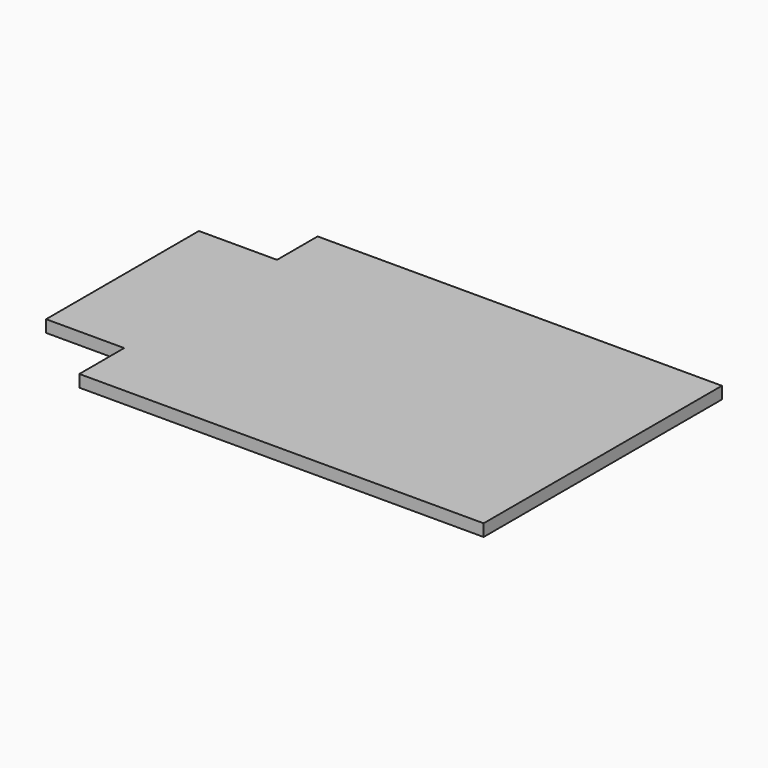
from build123d import *

# Parameters (mm, degrees)
F1_DEPTH = 3.175


with BuildPart() as f1:
    # F0 (on Top) → F1 (new body)
    with BuildSketch(Plane.XY):
        Polygon((53.419934, 62.122178), (-52.802866, 62.122178), (-52.802866, 57.49908), (-52.802866, 48.79114), (-52.802866, 7.30868), (-52.802866, -1.39926), (-52.802866, -16.135222), (53.419934, -16.135222), align=None)
        Polygon((-52.802866, 7.30868), (-52.802866, 48.79114), (-73.326066, 48.79114), (-73.326066, -1.39926), (-52.802866, -1.39926), align=None)
    extrude(amount=F1_DEPTH)


solid = f1.part
